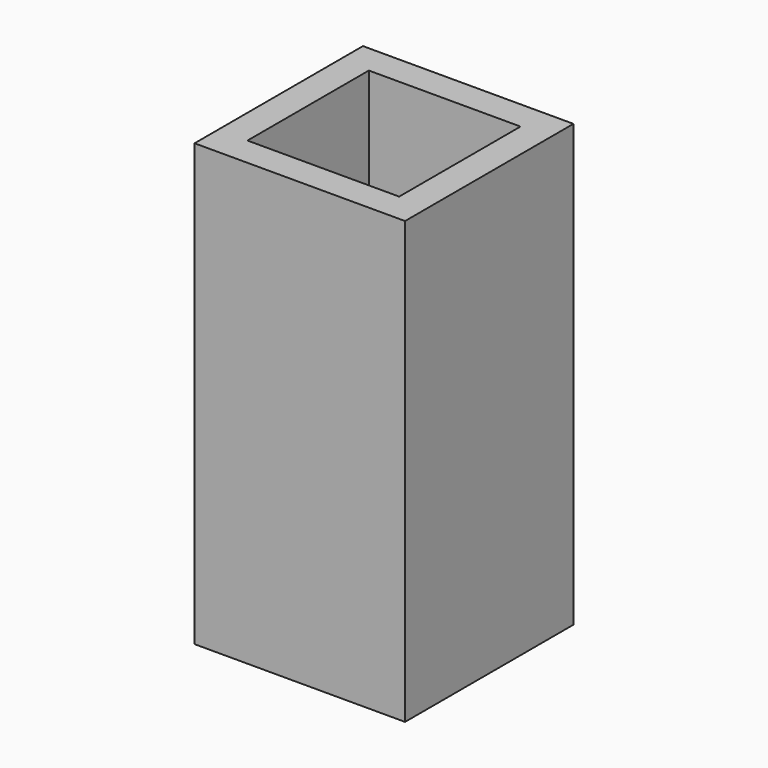
from build123d import *

# Parameters (mm, degrees)
F0_W     = 12.9
F0_H     = 12.9
F1_DEPTH = 35
F2_T     = 2.5


with BuildPart() as f1:
    # F0 (on Top) → F1 (new body)
    with BuildSketch(Plane.XY):
        Rectangle(F0_W, F0_H)
    extrude(amount=F1_DEPTH)

    # F2
    f2_openings = [f1.faces().sort_by_distance(p)[0] for p in [
        (0, 0, 35),
    ]]
    offset(amount=F2_T, openings=f2_openings, kind=Kind.INTERSECTION)


solid = f1.part
